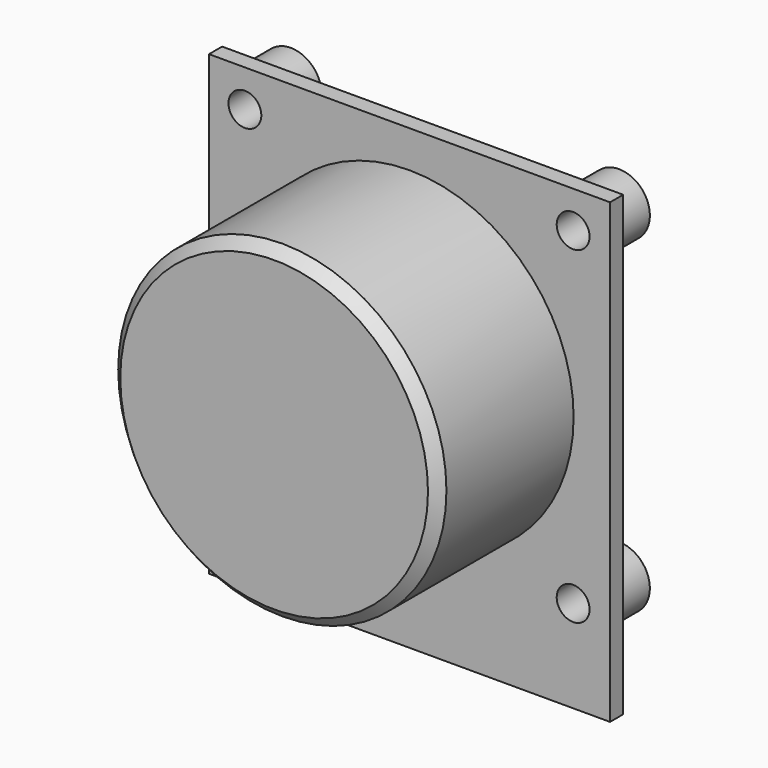
from build123d import *

# Parameters (mm, degrees)
SKETCH011_W              = 39.1
SKETCH011_H              = 44.6
SKETCH011_R              = 1.6
PAD007_DEPTH             = 1.6
SKETCH012_R              = 16
PAD008_DEPTH             = 16.5
SKETCH013_R              = 3
SKETCH013_R_2            = 1.6
PAD009_DEPTH             = 4
CHAMFER001_SIZE          = 1
CLONE001_PLACEMENT_ANGLE = 180


with BuildPart() as part:
    # Sketch011 → Pad007 (new body)
    with BuildSketch(Plane.XZ):
        Rectangle(SKETCH011_W, SKETCH011_H)
        with Locations((-15.95, 13.3)):
            Circle(SKETCH011_R, mode=Mode.SUBTRACT)
        with Locations((16.05, 13.3)):
            Circle(SKETCH011_R, mode=Mode.SUBTRACT)
        with Locations((16.05, -18.7)):
            Circle(SKETCH011_R, mode=Mode.SUBTRACT)
        with Locations((-15.95, -18.7)):
            Circle(SKETCH011_R, mode=Mode.SUBTRACT)
    extrude(amount=PAD007_DEPTH)

    # Sketch012 (on Face10 of Pad007) → Pad008 (join)
    with BuildSketch(Plane.XZ.offset(1.6)):
        with Locations((0, -2.7)):
            Circle(SKETCH012_R)
    extrude(amount=PAD008_DEPTH)

    # Sketch013 (on Face4 of Pad008) → Pad009 (join)
    with BuildSketch(Plane(origin=(0, 0, 0), x_dir=(1, 0, 0), z_dir=(0, 1, 0))):
        with Locations((-15.95, 18.7)):
            Circle(SKETCH013_R)
        with Locations((-15.95, 18.7)):
            Circle(SKETCH013_R_2, mode=Mode.SUBTRACT)
        with Locations((16.05, 18.7)):
            Circle(SKETCH013_R)
        with Locations((16.05, 18.7)):
            Circle(SKETCH013_R_2, mode=Mode.SUBTRACT)
        with Locations((16.05, -13.3)):
            Circle(SKETCH013_R)
        with Locations((16.05, -13.3)):
            Circle(SKETCH013_R_2, mode=Mode.SUBTRACT)
        with Locations((-15.95, -13.3)):
            Circle(SKETCH013_R)
        with Locations((-15.95, -13.3)):
            Circle(SKETCH013_R_2, mode=Mode.SUBTRACT)
    extrude(amount=PAD009_DEPTH)

    # Chamfer001
    chamfer001_edges = [part.edges().sort_by_distance(p)[0] for p in [
        (-16, -18.1, -2.7),
    ]]
    chamfer(chamfer001_edges, length=CHAMFER001_SIZE)


with BuildPart() as part_1:
    # Body008 placement: moved
    add(part.part.moved(Location((-20, -18.1, -102.9))))


with BuildPart() as part_2:
    # Clone placement: moved
    add(part_1.part.moved(Location((40, 0, 0))))


with BuildPart() as part_3:
    # Clone001 placement: moved
    add(part_2.part.moved(Location((0, 0, -160.4))).rotate(Axis((0, 0, -160.4), (0, 1, 0)), CLONE001_PLACEMENT_ANGLE))


solid = part_3.part
